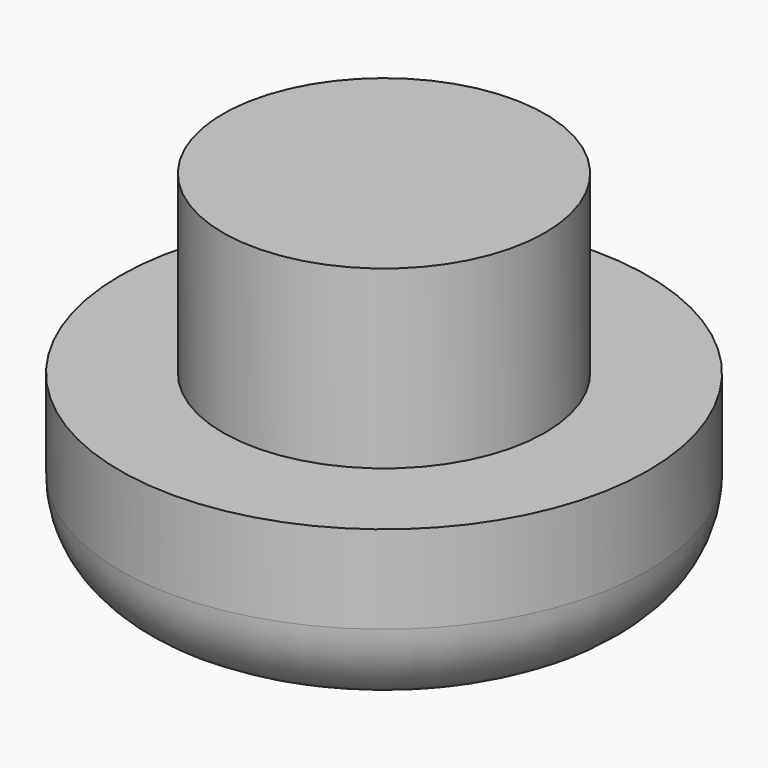
from build123d import *

# Parameters (mm, degrees)
F0_R     = 15
F1_DEPTH = 10
F3_R     = 9.15
F4_DEPTH = 10
F5_R     = 5


with BuildPart() as f1:
    # F0 (on Top) → F1 (new body)
    with BuildSketch(Plane.XY):
        Circle(F0_R)
    extrude(amount=F1_DEPTH)

    # F3 (on offset) → F4 (join)
    with BuildSketch(Plane.XY.offset(10)):
        Circle(F3_R)
    extrude(amount=F4_DEPTH)

    # F5
    f5_edges = [f1.edges().sort_by_distance(p)[0] for p in [
        (-15, 0, 0),
    ]]
    fillet(f5_edges, radius=F5_R)


solid = f1.part
